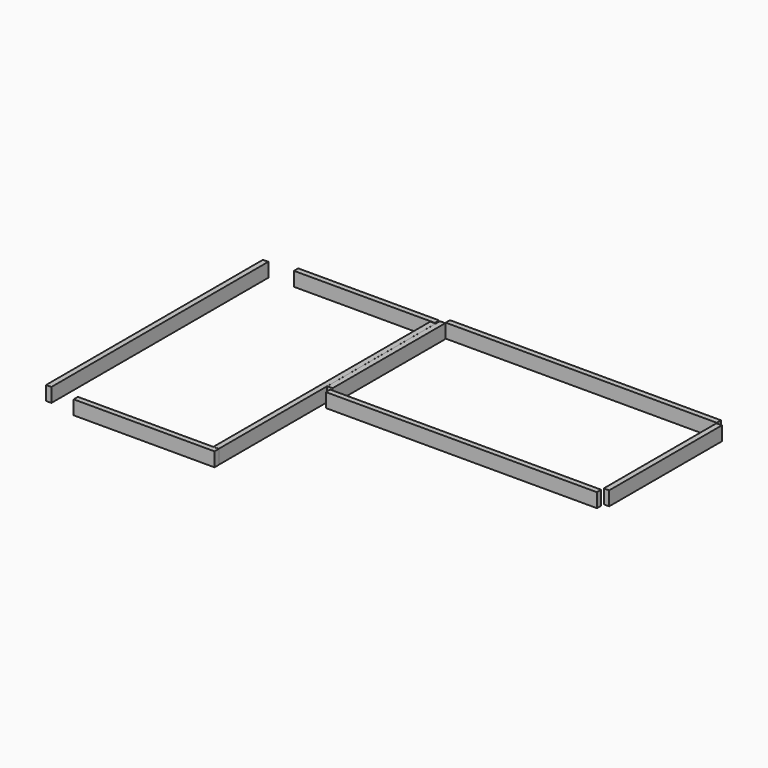
from build123d import *

# Parameters (mm, degrees)
F0_W     = 1924
F0_H     = 38
F1_DEPTH = 100
F0_W_2   = 38
F0_H_2   = 1924
F0_W_3   = 1000
F0_H_3   = 1000


with BuildPart() as f1:
    # F0 (on Top) → F1 (new body)
    with BuildSketch(Plane.XY):
        with Locations((535.2996711731, 1025.3002109528)):
            Rectangle(F0_W, F0_H)
    extrude(amount=F1_DEPTH)


with BuildPart() as f1b:
    # F0 (on Top) → F1, piece 2 (new body)
    with BuildSketch(Plane.XY):
        with Locations((-1669.887834549, 0.5110030174)):
            Rectangle(F0_W_2, F0_H_2)
    extrude(amount=F1_DEPTH)


with BuildPart() as f1c:
    # F0 (on Top) → F1, piece 3 (new body)
    with BuildSketch(Plane.XY):
        with Locations((-971.8877077103, 985.5110111237)):
            Rectangle(F0_W_3, F0_H)
    extrude(amount=F1_DEPTH)


with BuildPart() as f1d:
    # F0 (on Top) → F1, piece 4 (new body)
    with BuildSketch(Plane.XY):
        Polygon((1538.4091262817, 0.4491209984), (1538.4091262817, 1000.4491209984), (1500, 1000), (1500, 0.4491209984), align=None)
    extrude(amount=F1_DEPTH)


with BuildPart() as f1e:
    # F0 (on Top) → F1, piece 5 (new body)
    with BuildSketch(Plane.XY):
        with Locations((-443.6695215702, 500)):
            Rectangle(F0_W_2, F0_H_3)
    extrude(amount=F1_DEPTH)


with BuildPart() as f1f:
    # F0 (on Top) → F1, piece 6 (new body)
    with BuildSketch(Plane.XY):
        with Locations((-482.0066628456, 0.5110030174)):
            Rectangle(F0_W_2, F0_H_2)
    extrude(amount=F1_DEPTH)


with BuildPart() as f1g:
    # F0 (on Top) → F1, piece 7 (new body)
    with BuildSketch(Plane.XY):
        with Locations((-961.9817733765, -981.6316900253)):
            Rectangle(F0_W_3, F0_H)
    extrude(amount=F1_DEPTH)


with BuildPart() as f1h:
    # F0 (on Top) → F1, piece 8 (new body)
    with BuildSketch(Plane.XY):
        with Locations((537.3304958344, -40.3999959528)):
            Rectangle(F0_W, F0_H)
    extrude(amount=F1_DEPTH)


with BuildPart() as f2_1:
    # F2: copy of F1
    add(f1.part)


solid = Compound([f1.part, f1b.part, f1c.part, f1d.part, f1e.part, f1f.part, f1g.part, f1h.part, f2_1.part])
